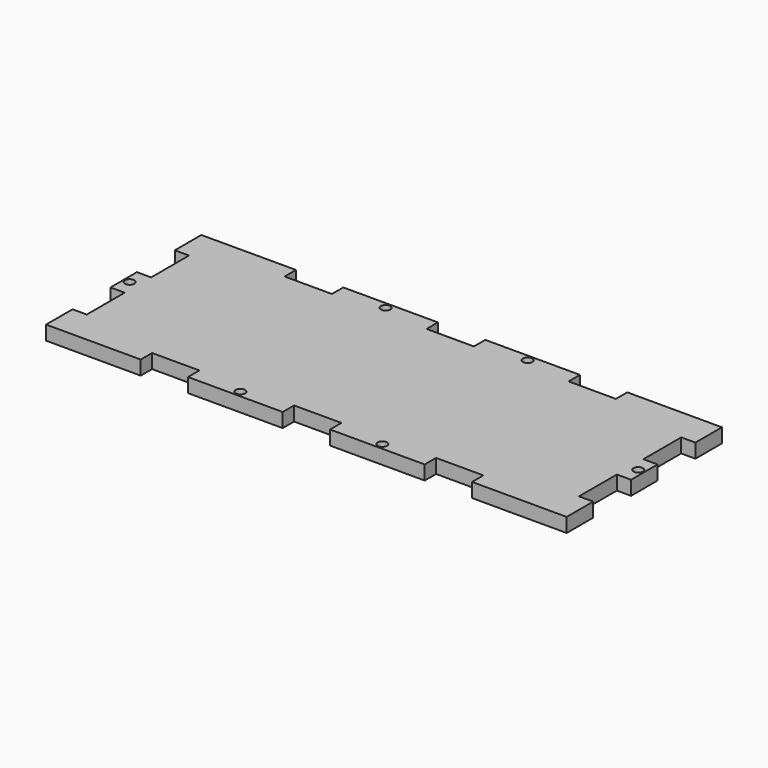
from build123d import *

# Parameters (mm, degrees)
F0_R     = 1
F1_DEPTH = 3


with BuildPart() as f1:
    # F0 (on Top) → F1 (new body)
    with BuildSketch(Plane.XY):
        Polygon((7.809917, 7), (7.809917, 0), (27.809917, 0), (27.809917, 3), (37.809917, 3), (37.809917, 0), (57.809917, 0), (57.809917, 3), (62.809917, 3), (67.809917, 3), (67.809917, 0), (87.809917, 0), (87.809917, 3), (97.809917, 3), (97.809917, 0), (117.809917, 0), (117.809917, 7), (114.809917, 7), (114.809917, 17), (117.809917, 17), (117.809917, 24), (114.809917, 24), (114.809917, 34), (117.809917, 34), (117.809917, 41), (97.809917, 41), (97.809917, 38), (87.809917, 38), (87.809917, 41), (67.809917, 41), (67.809917, 38), (62.809917, 38), (57.809917, 38), (57.809917, 41), (37.809917, 41), (37.809917, 38), (27.809917, 38), (27.809917, 41), (7.809917, 41), (7.809917, 34), (10.809917, 34), (10.809917, 24), (7.809917, 24), (7.809917, 17), (10.809917, 17), (10.809917, 7), align=None)
        with Locations((47.809917, 1.318964)):
            Circle(F0_R, mode=Mode.SUBTRACT)
        with Locations((77.809917, 1.318964)):
            Circle(F0_R, mode=Mode.SUBTRACT)
        with Locations((9.08087, 20.5)):
            Circle(F0_R, mode=Mode.SUBTRACT)
        with Locations((47.809917, 39.681036)):
            Circle(F0_R, mode=Mode.SUBTRACT)
        with Locations((116.538964, 20.5)):
            Circle(F0_R, mode=Mode.SUBTRACT)
        with Locations((77.809917, 39.681036)):
            Circle(F0_R, mode=Mode.SUBTRACT)
    extrude(amount=F1_DEPTH)


solid = f1.part
